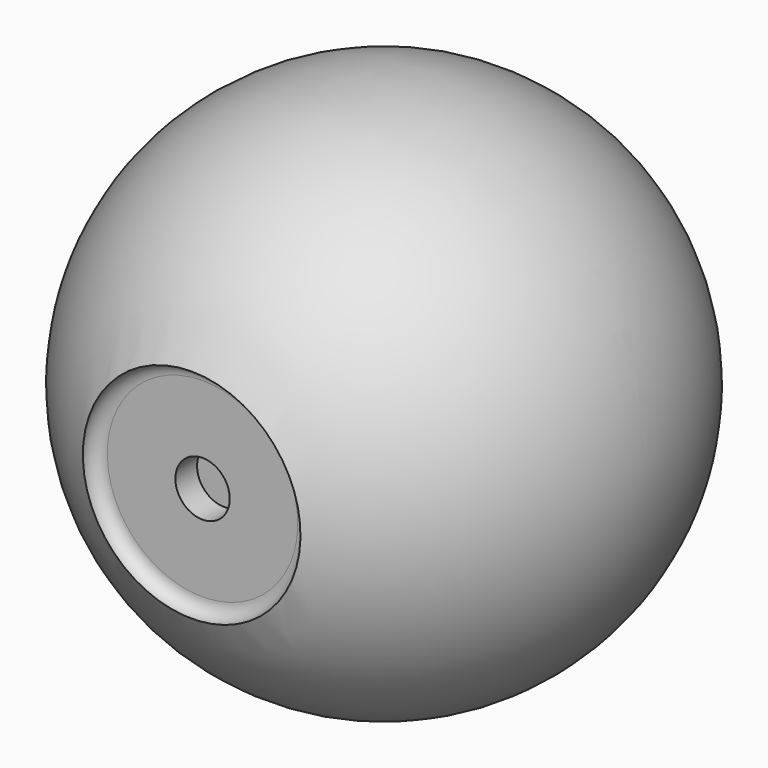
from build123d import *

# Parameters (mm, degrees)
F1_W = 10
F1_H = 10


with BuildPart() as f2:
    # F0 (on Front) → F2 (revolve)
    with BuildSketch(Plane.XZ):
        with BuildLine():
            Line((92, 0), (97, 0))
            ThreePointArc((97, 0), (0, 97), (-97, 0))
            Line((-97, 0), (-92, 0))
            ThreePointArc((-92, 0), (0, 92), (92, 0))
        make_face()
        with BuildLine():
            Line((0, 0), (39.7717796503, 0))
            ThreePointArc((39.7717796503, 0), (39.7746257755, 0.2754809826), (39.7755744989, 0.5509750335))
            ThreePointArc((39.7755744989, 0.5509750335), (-0.499919552, 40.5500263101), (-40.2206306525, 0))
            Line((-40.2206306525, 0), (0, 0))
        make_face()
        with BuildLine():
            Line((39.7717796503, 0), (92, 0))
            ThreePointArc((92, 0), (0, 92), (-92, 0))
            Line((-92, 0), (-40.2206306525, 0))
            ThreePointArc((-40.2206306525, 0), (-0.499919552, 40.5500263101), (39.7755744989, 0.5509750335))
            ThreePointArc((39.7755744989, 0.5509750335), (39.7746257755, 0.2754809826), (39.7717796503, 0))
        make_face()
    revolve(axis=Axis((-48.5, 0, 0), (-1, 0, 0)))

    # F1 (on Right) → F3 (revolve, cut)
    with BuildSketch(Plane.YZ):
        with BuildLine():
            ThreePointArc((-83.3685464405, 35), (-84.8330125345, 38.5355339059), (-88.3685464405, 40))
            Line((-88.3685464405, 40), (-88.3685464405, 35))
            Line((-88.3685464405, 35), (-88.3685464405, 30))
            ThreePointArc((-88.3685464405, 30), (-84.8330125345, 31.4644660941), (-83.3685464405, 35))
        make_face()
        with BuildLine():
            Line((-88.3685464405, 35), (-88.3685464405, 40))
            ThreePointArc((-88.3685464405, 40), (-90.1839810149, 35.7190364973), (-91.7921673453, 31.3559884879))
            ThreePointArc((-91.7921673453, 31.3559884879), (-90.2097338888, 30.3513411848), (-88.3685464405, 30))
            Line((-88.3685464405, 30), (-88.3685464405, 35))
        make_face()
        with BuildLine():
            ThreePointArc((-91.7921673453, 31.3559884879), (-95.6891849492, 15.8927619926), (-97, 0))
            Line((-97, 0), (-88.3685464405, 0))
            Line((-88.3685464405, 0), (-88.3685464405, 30))
            ThreePointArc((-88.3685464405, 30), (-90.2097338888, 30.3513411848), (-91.7921673453, 31.3559884879))
        make_face()
        with BuildLine():
            Line((-83.3685464405, 10), (-83.3685464405, 35))
            ThreePointArc((-83.3685464405, 35), (-84.8330125345, 31.4644660941), (-88.3685464405, 30))
            Line((-88.3685464405, 30), (-88.3685464405, 0))
            Line((-88.3685464405, 0), (-83.3685464405, 0))
            Line((-83.3685464405, 0), (-83.3685464405, 10))
        make_face()
        with Locations((-78.3685464405, 5)):
            Rectangle(F1_W, F1_H)
    revolve(axis=Axis((0, -48.5, 0), (0, -1, 0)), mode=Mode.SUBTRACT)


solid = f2.part
